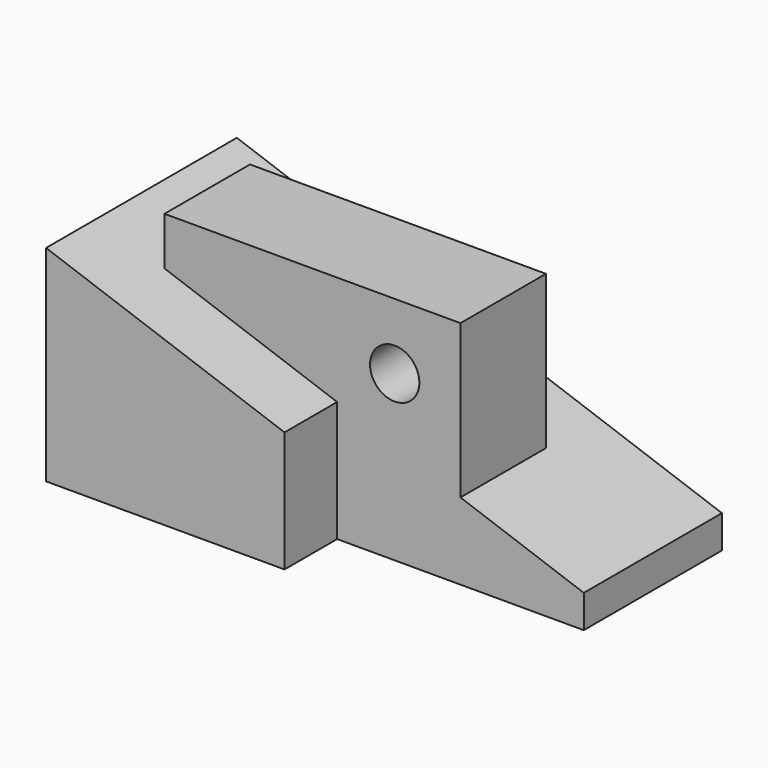
from build123d import *

# Parameters (mm, degrees)
F1_DEPTH = 58
F3_DEPTH = 16
F5_DEPTH = 56
F6_R     = 6
F7_DEPTH = 42.001


with BuildPart() as f1:
    # F0 (on Front) → F1 (new body)
    with BuildSketch(Plane.XZ):
        Polygon((118, 8), (0, 50), (0, 0), (118, 0), align=None)
    extrude(amount=F1_DEPTH)

    # F2 (on face) → F3 (cut)
    with BuildSketch(Plane.XZ.offset(58)):
        Polygon((118, 0), (118, 8), (58, 29.355932), (58, 0), align=None)
    extrude(amount=-F3_DEPTH, mode=Mode.SUBTRACT)

    # F4 (on face) → F5 (join)
    with BuildSketch(Plane(origin=(0, 0, 0), x_dir=(1, 0, 0), z_dir=(0, 0, -1))):
        Polygon((88, 16), (88, 42), (58, 42), (16, 42), (16, 16), align=None)
    extrude(amount=-F5_DEPTH)

    # F6 (on face) → F7 (cut, through all)
    with BuildSketch(Plane(origin=(0, -16, 0), x_dir=(-1, 0, 0), z_dir=(0, 1, 0))):
        with Locations((-72, 40)):
            Circle(F6_R)
    extrude(amount=-F7_DEPTH, mode=Mode.SUBTRACT)


solid = f1.part
